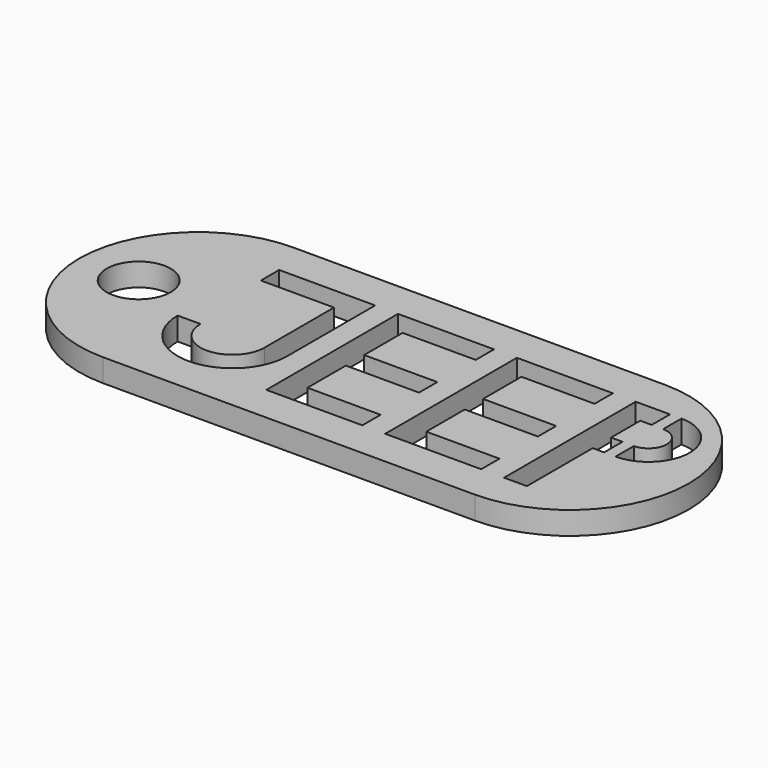
from build123d import *

# Parameters (mm, degrees)
F0_R     = 4.445
F1_DEPTH = 3.175


with BuildPart() as f1:
    # F0 (on Top) → F1 (new body)
    with BuildSketch(Plane.XY):
        with BuildLine():
            Line((30.48, 33.02), (16.51, 33.02))
            ThreePointArc((16.51, 33.02), (0, 16.51), (16.51, 0))
            Line((16.51, 0), (68.1482, 0))
            ThreePointArc((68.1482, 0), (84.6582, 16.51), (68.1482, 33.02))
            Line((68.1482, 33.02), (30.48, 33.02))
        make_face()
        with Locations((8.255, 16.51)):
            Circle(F0_R, mode=Mode.SUBTRACT)
        with BuildLine():
            Line((18.6182, 24.765), (18.6182, 27.94))
            Line((18.6182, 27.94), (31.9532, 27.94))
            Line((31.9532, 27.94), (31.9532, 24.765))
            Line((31.9532, 24.765), (31.9532, 12.7))
            ThreePointArc((31.9532, 12.7), (24.3332, 5.08), (16.7132, 12.7))
            Line((16.7132, 12.7), (19.8882, 12.7))
            ThreePointArc((19.8882, 12.7), (24.3332, 8.255), (28.7782, 12.7))
            Line((28.7782, 12.7), (28.7782, 24.765))
            Line((28.7782, 24.765), (18.6182, 24.765))
        make_face(mode=Mode.SUBTRACT)
        Polygon((35.1282, 27.94), (48.4632, 27.94), (48.4632, 24.765), (38.3032, 24.765), (38.3032, 18.0975), (48.4632, 18.0975), (48.4632, 14.9225), (38.3032, 14.9225), (38.3032, 8.255), (48.4632, 8.255), (48.4632, 5.08), (35.1282, 5.08), align=None, mode=Mode.SUBTRACT)
        Polygon((64.9732, 27.94), (64.9732, 24.765), (54.8132, 24.765), (54.8132, 18.0975), (64.9732, 18.0975), (64.9732, 14.9225), (54.8132, 14.9225), (54.8132, 8.255), (64.9732, 8.255), (64.9732, 5.08), (51.6382, 5.08), (51.6382, 27.94), align=None, mode=Mode.SUBTRACT)
        Polygon((68.1482, 5.08), (68.1482, 27.94), (72.9107, 27.94), (72.9107, 24.765), (71.3232, 24.765), (71.3232, 19.685), (72.9107, 19.685), (72.9107, 16.51), (71.3232, 16.51), (71.3232, 5.08), align=None, mode=Mode.SUBTRACT)
        with BuildLine():
            ThreePointArc((74.4982, 27.94), (80.2132, 22.225), (74.4982, 16.51))
            Line((74.4982, 16.51), (74.4982, 19.685))
            ThreePointArc((74.4982, 19.685), (77.0382, 22.225), (74.4982, 24.765))
            Line((74.4982, 24.765), (74.4982, 27.94))
        make_face(mode=Mode.SUBTRACT)
        with BuildLine():
            Line((30.48, 33.02), (16.51, 33.02))
            ThreePointArc((16.51, 33.02), (0, 16.51), (16.51, 0))
            Line((16.51, 0), (68.1482, 0))
            ThreePointArc((68.1482, 0), (84.6582, 16.51), (68.1482, 33.02))
            Line((68.1482, 33.02), (30.48, 33.02))
        make_face()
        with Locations((8.255, 16.51)):
            Circle(F0_R, mode=Mode.SUBTRACT)
        with BuildLine():
            Line((18.6182, 24.765), (18.6182, 27.94))
            Line((18.6182, 27.94), (31.9532, 27.94))
            Line((31.9532, 27.94), (31.9532, 24.765))
            Line((31.9532, 24.765), (31.9532, 12.7))
            ThreePointArc((31.9532, 12.7), (24.3332, 5.08), (16.7132, 12.7))
            Line((16.7132, 12.7), (19.8882, 12.7))
            ThreePointArc((19.8882, 12.7), (24.3332, 8.255), (28.7782, 12.7))
            Line((28.7782, 12.7), (28.7782, 24.765))
            Line((28.7782, 24.765), (18.6182, 24.765))
        make_face(mode=Mode.SUBTRACT)
        Polygon((35.1282, 27.94), (48.4632, 27.94), (48.4632, 24.765), (38.3032, 24.765), (38.3032, 18.0975), (48.4632, 18.0975), (48.4632, 14.9225), (38.3032, 14.9225), (38.3032, 8.255), (48.4632, 8.255), (48.4632, 5.08), (35.1282, 5.08), align=None, mode=Mode.SUBTRACT)
        Polygon((64.9732, 27.94), (64.9732, 24.765), (54.8132, 24.765), (54.8132, 18.0975), (64.9732, 18.0975), (64.9732, 14.9225), (54.8132, 14.9225), (54.8132, 8.255), (64.9732, 8.255), (64.9732, 5.08), (51.6382, 5.08), (51.6382, 27.94), align=None, mode=Mode.SUBTRACT)
        Polygon((68.1482, 5.08), (68.1482, 27.94), (72.9107, 27.94), (72.9107, 24.765), (71.3232, 24.765), (71.3232, 19.685), (72.9107, 19.685), (72.9107, 16.51), (71.3232, 16.51), (71.3232, 5.08), align=None, mode=Mode.SUBTRACT)
        with BuildLine():
            ThreePointArc((74.4982, 27.94), (80.2132, 22.225), (74.4982, 16.51))
            Line((74.4982, 16.51), (74.4982, 19.685))
            ThreePointArc((74.4982, 19.685), (77.0382, 22.225), (74.4982, 24.765))
            Line((74.4982, 24.765), (74.4982, 27.94))
        make_face(mode=Mode.SUBTRACT)
    extrude(amount=F1_DEPTH)


solid = f1.part
